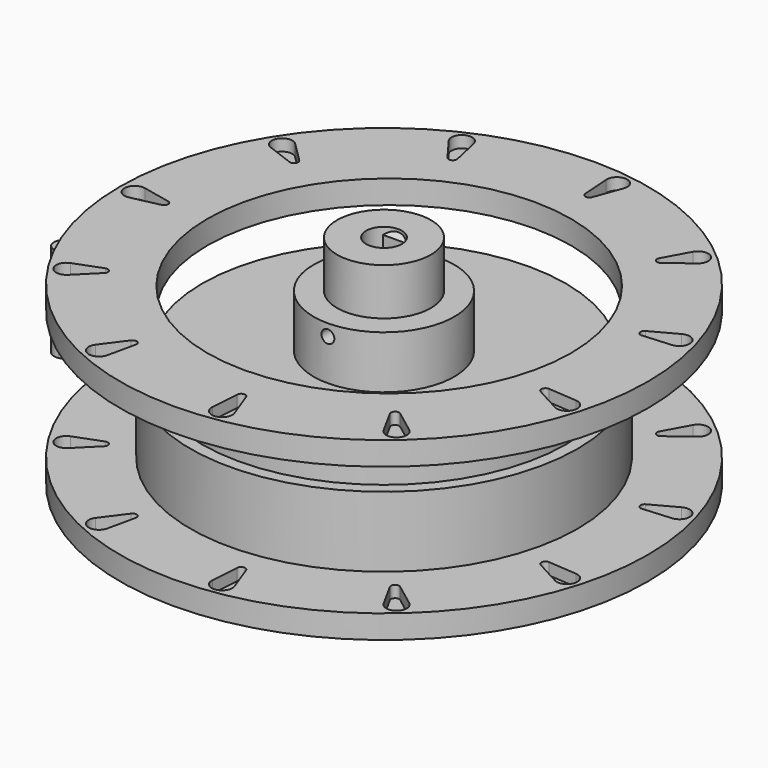
from build123d import *

# Parameters (mm, degrees)
PAD_DEPTH             = 3
SKETCH013_R           = 1.1
POCKET003_DEPTH       = 45.001
POCKET003_DEPTH_BACK  = -45.001
POCKET004_DEPTH       = 8
POLARPATTERN_COUNT    = 11
SKETCH015_R           = 45
SKETCH015_R_2         = 31
PAD002_DEPTH          = 4
POCKET_DEPTH          = 2
POLARPATTERN001_COUNT = 11
PAD003_DEPTH          = 8


with BuildPart() as wheel_one_rim:
    # Sketch006 → Revolution001 (revolve)
    with BuildSketch(Plane.XZ):
        Polygon((-8, 27), (-3.05, 27), (-3.05, 14), (-2.5, 14), (-2.5, -10), (-45, -10), (-45, -6), (-33, -6), (-33, 6), (-31, 6), (-31, 10), (-12, 10), (-12, 19), (-8, 19), align=None)
    revolve(axis=Axis((0, 0, 0), (0, 0, 1)))

    # Sketch → Pad (new body, symmetric)
    with BuildSketch(Plane.YZ):
        Polygon((2.3, 14.8), (2.3, 25.8), (3.3, 26.8), (3.3, 14.8), align=None)
    extrude(amount=PAD_DEPTH, both=True)

    # Sketch013 → Pocket003 (cut, two sides)
    with BuildSketch(Plane.XZ) as pocket003_sk:
        with Locations((0, 17)):
            Circle(SKETCH013_R)
    extrude(amount=-POCKET003_DEPTH, mode=Mode.SUBTRACT)
    extrude(pocket003_sk.sketch, amount=-POCKET003_DEPTH_BACK, mode=Mode.SUBTRACT)

    # Sketch014 → Pocket004 (cut)
    with BuildSketch(Plane.XY):
        with BuildLine():
            ThreePointArc((-42.1325, 1.710977), (-44.25, 0), (-42.1325, -1.710977))
            Line((-37.353, -0.684391), (-42.1325, -1.710977))
            ThreePointArc((-37.353, -0.684391), (-36.8, 0), (-37.353, 0.684391))
            Line((-37.353, 0.684391), (-42.1325, 1.710977))
        make_face()
    pocket004 = extrude(amount=-POCKET004_DEPTH, mode=Mode.SUBTRACT)

    # PolarPattern: Pocket004 ×11 about axis
    polarpattern_axis = Axis((0, 0, 0), (0, 0, 1))
    for i in range(1, POLARPATTERN_COUNT):
        add(pocket004.rotate(polarpattern_axis, i * 360 / POLARPATTERN_COUNT), mode=Mode.SUBTRACT)


with BuildPart() as second_rim:
    # Sketch015 → Pad002 (new body)
    with BuildSketch(Plane.XY):
        Circle(SKETCH015_R)
        with Locations((0.883837, 0)):
            Circle(SKETCH015_R_2, mode=Mode.SUBTRACT)
    extrude(amount=-PAD002_DEPTH)

    # Sketch016 → Pocket (cut)
    with BuildSketch(Plane.XY):
        with BuildLine():
            ThreePointArc((-42.1325, 1.710977), (-44.25, 0), (-42.1325, -1.710977))
            Line((-37.353, -0.684391), (-42.1325, -1.710977))
            ThreePointArc((-37.353, -0.684391), (-36.8, 0), (-37.353, 0.684391))
            Line((-37.353, 0.684391), (-42.1325, 1.710977))
        make_face()
    pocket = extrude(amount=-POCKET_DEPTH, mode=Mode.SUBTRACT)

    # PolarPattern001: Pocket ×11 about axis
    polarpattern001_axis = Axis((0, 0, 0), (0, 0, 1))
    for i in range(1, POLARPATTERN001_COUNT):
        add(pocket.rotate(polarpattern001_axis, i * 360 / POLARPATTERN001_COUNT), mode=Mode.SUBTRACT)


with BuildPart() as second_rim_1:
    # Body placement: moved
    add(second_rim.part.moved(Location((0, 0, 20))))


with BuildPart() as tooth:
    # Sketch017 → Pad003 (new body, symmetric)
    with BuildSketch(Plane.XY):
        with BuildLine():
            ThreePointArc((-42.1325, 1.710977), (-44.25, 0), (-42.1325, -1.710977))
            Line((-37.353, -0.684391), (-42.1325, -1.710977))
            ThreePointArc((-37.353, -0.684391), (-36.8, 0), (-37.353, 0.684391))
            Line((-37.353, 0.684391), (-42.1325, 1.710977))
        make_face()
    extrude(amount=PAD003_DEPTH, both=True)


with BuildPart() as tooth_1:
    # Body006 placement: moved
    add(tooth.part.moved(Location((-12, 0, 0))))


solid = Compound([wheel_one_rim.part, second_rim_1.part, tooth_1.part])
